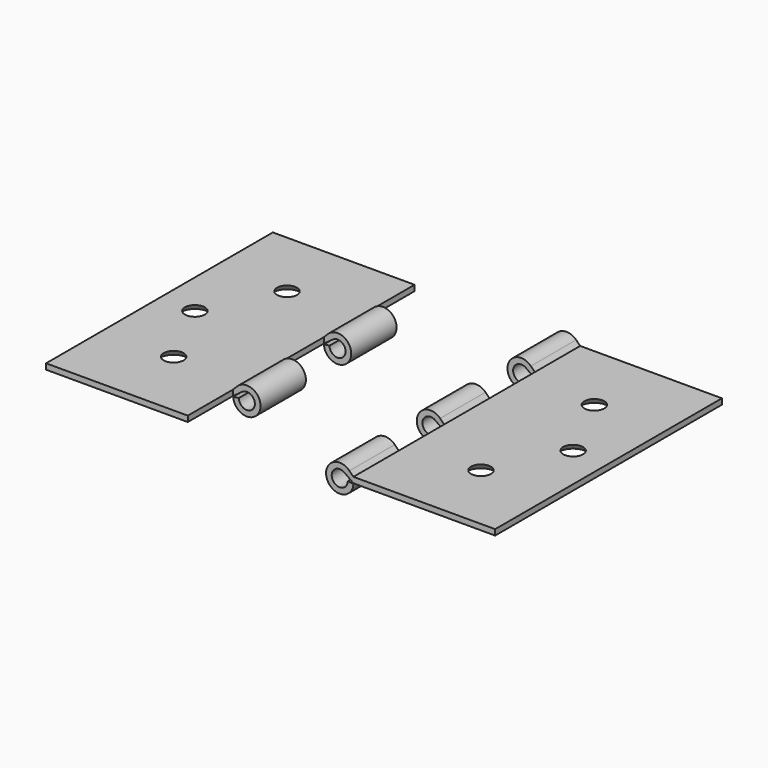
from build123d import *

# Parameters (mm, degrees)
F1_DEPTH  = 100
F2_R      = 5
F3_R      = 3.5
F10_W     = 20
F10_H     = 20
F11_DEPTH = 12.5
F12_DEPTH = 12.5


with BuildPart() as f1:
    # F0 (on Front) → F1 (new body)
    with BuildSketch(Plane.XZ):
        with BuildLine():
            Line((39.6151453722, 24.9912568834), (-10.3848546278, 24.9912568834))
            Line((-10.3848546278, 24.9912568834), (-11.7990681902, 26.4054704458))
            ThreePointArc((-11.7990681902, 26.4054704458), (-19.7236384627, 21.2677746973), (-10.392264395, 22.7238617881))
            Line((-10.392264395, 22.7238617881), (-12.3848546278, 22.9912568834))
            ThreePointArc((-12.3848546278, 22.9912568834), (-17.2132817525, 20.9912568834), (-15.2132817525, 25.8196840081))
            ThreePointArc((-15.2132817525, 25.8196840081), (-14.3425704396, 25.6823276386), (-13.556427503, 25.2835993525))
            Line((-13.556427503, 25.2835993525), (-10.3848546278, 22.9912568834))
            Line((-10.3848546278, 22.9912568834), (39.6151453722, 22.9912568834))
            Line((39.6151453722, 22.9912568834), (39.6151453722, 24.9912568834))
        make_face()
    extrude(amount=F1_DEPTH)

    # F2 (on face) → F4 section 0
    with BuildSketch(Plane(origin=(0, 0, 22.9912568834), x_dir=(1, 0, 0), z_dir=(0, 0, -1))):
        with Locations((14.6151453722, 75)):
            Circle(F2_R)
    # F3 (on face) → F4 section 1
    with BuildSketch(Plane.XY.offset(24.9912568834)):
        with Locations((14.6151453722, -75)):
            Circle(F3_R)
    loft(mode=Mode.SUBTRACT)

    # F2 (on face) → F5 section 0
    with BuildSketch(Plane(origin=(0, 0, 22.9912568834), x_dir=(1, 0, 0), z_dir=(0, 0, -1))):
        with Locations((27.1151453722, 50)):
            Circle(F2_R)
    # F3 (on face) → F5 section 1
    with BuildSketch(Plane.XY.offset(24.9912568834)):
        with Locations((27.1151453722, -50)):
            Circle(F3_R)
    loft(mode=Mode.SUBTRACT)

    # F2 (on face) → F6 section 0
    with BuildSketch(Plane(origin=(0, 0, 22.9912568834), x_dir=(1, 0, 0), z_dir=(0, 0, -1))):
        with Locations((14.6151453722, 25)):
            Circle(F2_R)
    # F3 (on face) → F6 section 1
    with BuildSketch(Plane.XY.offset(24.9912568834)):
        with Locations((14.6151453722, -25)):
            Circle(F3_R)
    loft(mode=Mode.SUBTRACT)


with BuildPart() as f8_1:
    # F8: instance of F1
    add(f1.part.mirror(Plane.YZ.offset(-39.6)))

    # F10 (on offset) → F11 (cut, symmetric)
    with BuildSketch(Plane(origin=(0, 0, 22.3912568834), x_dir=(1, 0, 0), z_dir=(0, 0, -1))):
        with Locations((-58.8151453722, 90)):
            Rectangle(F10_W, F10_H)
        with Locations((-58.8151453722, 50)):
            Rectangle(F10_W, F10_H)
        with Locations((-58.8151453722, 10)):
            Rectangle(F10_W, F10_H)
    extrude(amount=F11_DEPTH, both=True, mode=Mode.SUBTRACT)


with BuildPart() as f1_1:
    add(f1.part)

    # F10 (on offset) → F12 (cut, symmetric)
    with BuildSketch(Plane(origin=(0, 0, 22.3912568834), x_dir=(1, 0, 0), z_dir=(0, 0, -1))):
        with Locations((-20.3848546278, 70)):
            Rectangle(F10_W, F10_H)
        with Locations((-20.3848546278, 30)):
            Rectangle(F10_W, F10_H)
    extrude(amount=F12_DEPTH, both=True, mode=Mode.SUBTRACT)


solid = Compound([f8_1.part, f1_1.part])
